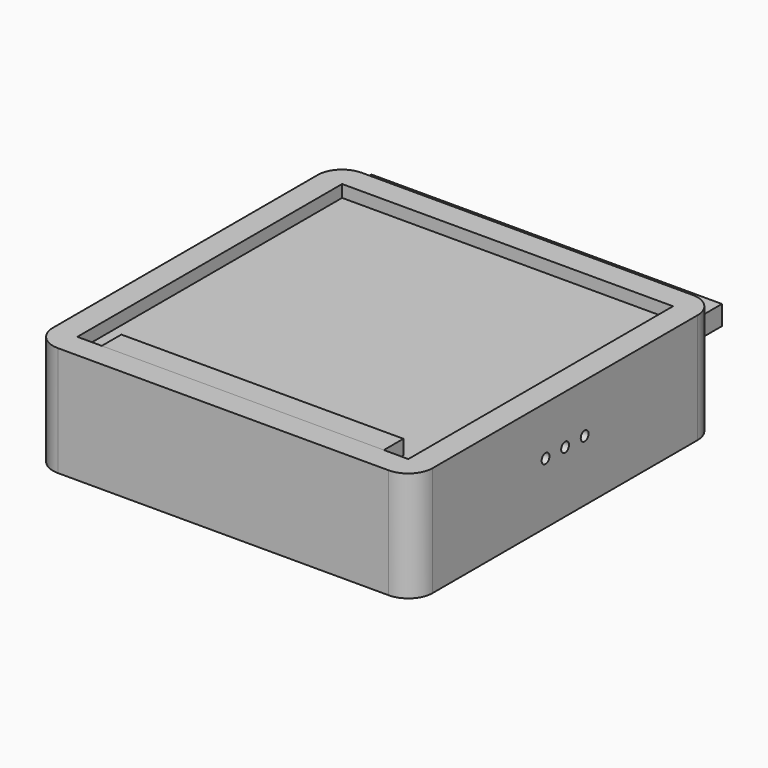
from build123d import *

# Parameters (mm, degrees)
F0_W           = 67.7
F0_H           = 67.7
F1_DEPTH       = 22.5
F3_START       = 5
F2_W           = 67.7
F2_H           = 67.7
F2_W_2         = 55
F2_H_2         = 55
F3_DEPTH       = 5
F6_DEPTH       = 100
F7_W           = 72.7
F7_H           = 5
F8_DEPTH       = 75.2
F10_DEPTH      = 5
F10_DEPTH_BACK = 75.2
F11_W          = 57.7
F11_H          = 5
F12_DEPTH      = 3


with BuildPart() as f1:
    # F0 (on Top) → F1 (new body)
    with BuildSketch(Plane.XY):
        with BuildLine():
            Line((68.1011751294, 72.7), (0.4011751294, 72.7))
            ThreePointArc((0.4011751294, 72.7), (-3.1343587765, 71.2355339059), (-4.5988248706, 67.7))
            Line((-4.5988248706, 67.7), (-4.5988248706, 0))
            ThreePointArc((-4.5988248706, 0), (-3.1343587765, -3.5355339059), (0.4011751294, -5))
            Line((0.4011751294, -5), (68.1011751294, -5))
            ThreePointArc((68.1011751294, -5), (71.6367090353, -3.5355339059), (73.1011751294, 0))
            Line((73.1011751294, 0), (73.1011751294, 67.7))
            ThreePointArc((73.1011751294, 67.7), (71.6367090353, 71.2355339059), (68.1011751294, 72.7))
        make_face()
        with Locations((34.2511751294, 33.85)):
            Rectangle(F0_W, F0_H, mode=Mode.SUBTRACT)
    extrude(amount=F1_DEPTH)

    # F2 (on Top) → F3 (join)
    with BuildSketch(Plane.XY.offset(F3_START)):
        with Locations((34.2511751294, 33.85)):
            Rectangle(F2_W, F2_H)
        with Locations((34.2511751294, 33.85)):
            Rectangle(F2_W_2, F2_H_2, mode=Mode.SUBTRACT)
    extrude(amount=F3_DEPTH)

    # F5 (on face) → F6 (cut)
    with BuildSketch(Plane.YZ.offset(73.1011751294)):
        with BuildLine():
            Line((32.85, 12.5), (34.85, 12.5))
            ThreePointArc((34.85, 12.5), (33.85, 13.5), (32.85, 12.5))
        make_face()
        with BuildLine():
            ThreePointArc((27.85, 12.5), (28.85, 11.5), (29.85, 12.5))
            Line((29.85, 12.5), (27.85, 12.5))
        make_face()
        with BuildLine():
            Line((27.85, 12.5), (29.85, 12.5))
            ThreePointArc((29.85, 12.5), (28.85, 13.5), (27.85, 12.5))
        make_face()
        with BuildLine():
            ThreePointArc((32.85, 12.5), (33.85, 11.5), (34.85, 12.5))
            Line((34.85, 12.5), (32.85, 12.5))
        make_face()
        with BuildLine():
            ThreePointArc((39.85, 12.5), (38.85, 13.5), (37.85, 12.5))
            Line((37.85, 12.5), (39.85, 12.5))
        make_face()
        with BuildLine():
            Line((39.85, 12.5), (37.85, 12.5))
            ThreePointArc((37.85, 12.5), (38.85, 11.5), (39.85, 12.5))
        make_face()
    extrude(amount=-F6_DEPTH, mode=Mode.SUBTRACT)

    # F7 (on face) → F8 (cut)
    with BuildSketch(Plane(origin=(0, 72.7, 0), x_dir=(-1, 0, 0), z_dir=(0, 1, 0))):
        with Locations((-34.2511751294, 17.5)):
            Rectangle(F7_W, F7_H)
    extrude(amount=-F8_DEPTH, mode=Mode.SUBTRACT)


with BuildPart() as f10:
    # F9 (on face) → F10 (new body, two sides)
    with BuildSketch(Plane(origin=(0, 72.7, 0), x_dir=(-1, 0, 0), z_dir=(0, 1, 0))) as f10_sk:
        Polygon((-70.1011751294, 15.5), (-68.1011751294, 15.5), (-0.4011751294, 15.5), (1.5988248706, 15.5), (1.5988248706, 19.5), (-0.4011751294, 19.5), (-68.1011751294, 19.5), (-70.1011751294, 19.5), align=None)
    extrude(amount=F10_DEPTH)
    extrude(f10_sk.sketch, amount=-F10_DEPTH_BACK)

    # F11 (on face) → F12 (join)
    with BuildSketch(Plane.XY.offset(19.5)):
        with Locations((34.2511751294, 2.5)):
            Rectangle(F11_W, F11_H)
    extrude(amount=F12_DEPTH)


solid = Compound([f1.part, f10.part])
